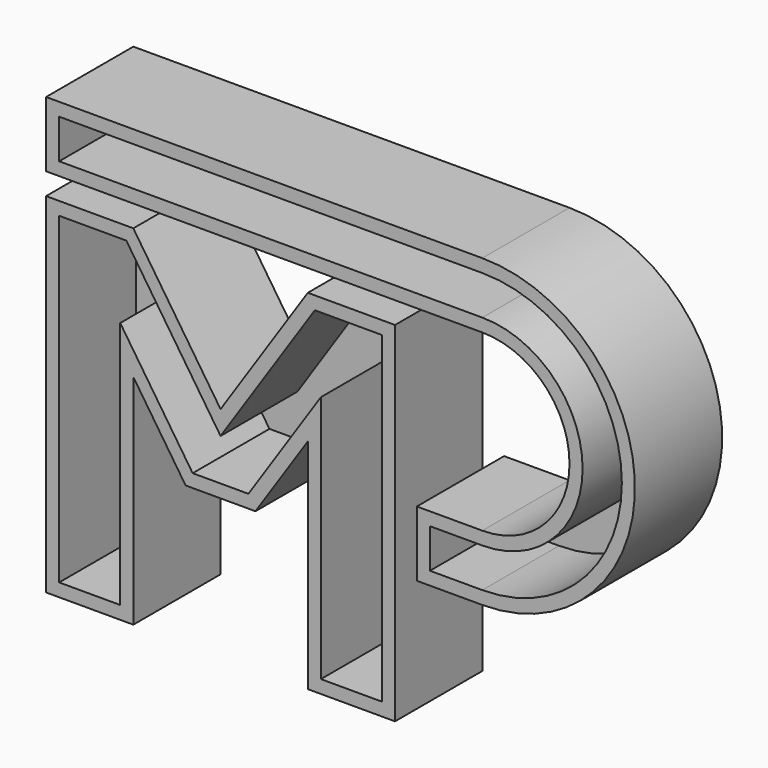
from build123d import *

# Parameters (mm, degrees)
F3_DEPTH = 25
F4_T     = -3
F4_2_T   = -3
F5_W     = 5
F5_H     = 5
F6_DEPTH = 5


with BuildPart() as f3:
    # F1 (on Front) → F3 (new body)
    with BuildSketch(Plane.XZ):
        Polygon((-40, 80), (-40, 0), (-20, 0), (-20, 50), (-8, 32), (0, 32), (8, 32), (20, 50), (20, 0), (40, 0), (40, 80), (20, 80), (0, 50), (-20, 80), align=None)
        Polygon((-40, 80), (-40, 0), (-20, 0), (-20, 50), (-8, 32), (0, 32), (8, 32), (20, 50), (20, 0), (40, 0), (40, 80), (20, 80), (0, 50), (-20, 80), align=None)
    extrude(amount=F3_DEPTH)

    # F4
    f4_openings = [f3.faces().sort_by_distance(p)[0] for p in [
        (0, -25, 43.055762),
    ]]
    offset(amount=F4_T, openings=f4_openings, kind=Kind.INTERSECTION)



with BuildPart() as f3b:
    # F2 (on Front) → F3, piece 2 (new body)
    with BuildSketch(Plane.XZ):
        with BuildLine():
            Line((-40, 100), (-40, 85))
            Line((-40, 85), (60, 85))
            ThreePointArc((60, 85), (80, 65), (60, 45))
            Line((60, 45), (45, 45))
            Line((45, 45), (45, 30))
            Line((45, 30), (60, 30))
            ThreePointArc((60, 30), (95, 65), (60, 100))
            Line((60, 100), (-40, 100))
        make_face()
        with BuildLine():
            Line((-40, 100), (-40, 85))
            Line((-40, 85), (60, 85))
            ThreePointArc((60, 85), (80, 65), (60, 45))
            Line((60, 45), (45, 45))
            Line((45, 45), (45, 30))
            Line((45, 30), (60, 30))
            ThreePointArc((60, 30), (95, 65), (60, 100))
            Line((60, 100), (-40, 100))
        make_face()
    extrude(amount=F3_DEPTH)

    # F4#2
    f4_2_openings = [f3b.faces().sort_by_distance(p)[0] for p in [
        (-38.479309, -25, 92.5),
    ]]
    offset(amount=F4_2_T, openings=f4_2_openings)


with BuildPart() as f3_1:
    add(f3.part)

    add(f3b.part)  # F6 merges F3b
    # F5 (on offset) → F6 (join)
    with BuildSketch(Plane.XY.offset(80)):
        with Locations((-30, -12.5)):
            Rectangle(F5_W, F5_H)
        with Locations((30, -12.5)):
            Rectangle(F5_W, F5_H)
    extrude(amount=F6_DEPTH)


solid = f3_1.part
